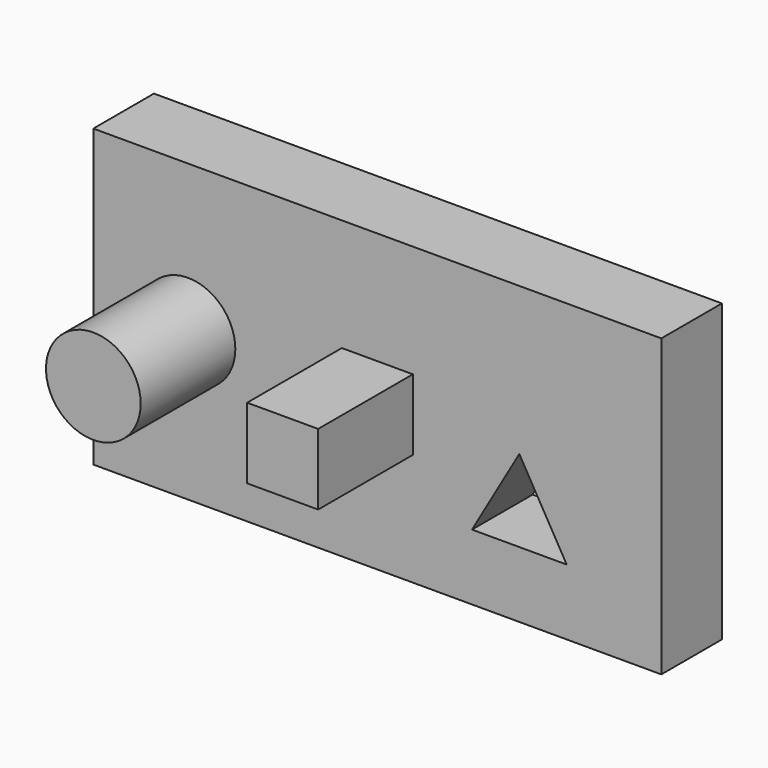
from build123d import *

# Parameters (mm, degrees)
F0_R     = 12.7
F0_W     = 19.05
F0_H     = 19.05
F1_DEPTH = 20.32
F2_DEPTH = 31.75


with BuildPart() as f1:
    # F0 (on Front) → F1 (new body)
    with BuildSketch(Plane.XZ):
        Polygon((44.45, -39.6875), (44.45, 0), (44.45, 39.6875), (-107.95, 39.6875), (-107.95, -39.6875), align=None)
        Polygon((-6.35, -21.997045), (6.35, 0), (19.05, -21.997045), align=None, mode=Mode.SUBTRACT)
        with Locations((-82.55, 0)):
            Circle(F0_R, mode=Mode.SUBTRACT)
        with Locations((-31.75, 0)):
            Rectangle(F0_W, F0_H, mode=Mode.SUBTRACT)
        with Locations((-82.55, 0)):
            Circle(F0_R)
    extrude(amount=-F1_DEPTH)


with BuildPart() as f2:
    # F0 (on Front) → F2 (new body)
    with BuildSketch(Plane.XZ):
        with Locations((-82.55, 0)):
            Circle(F0_R)
        with Locations((-31.75, 0)):
            Rectangle(F0_W, F0_H)
    extrude(amount=F2_DEPTH)


solid = Compound([f1.part, f2.part])
